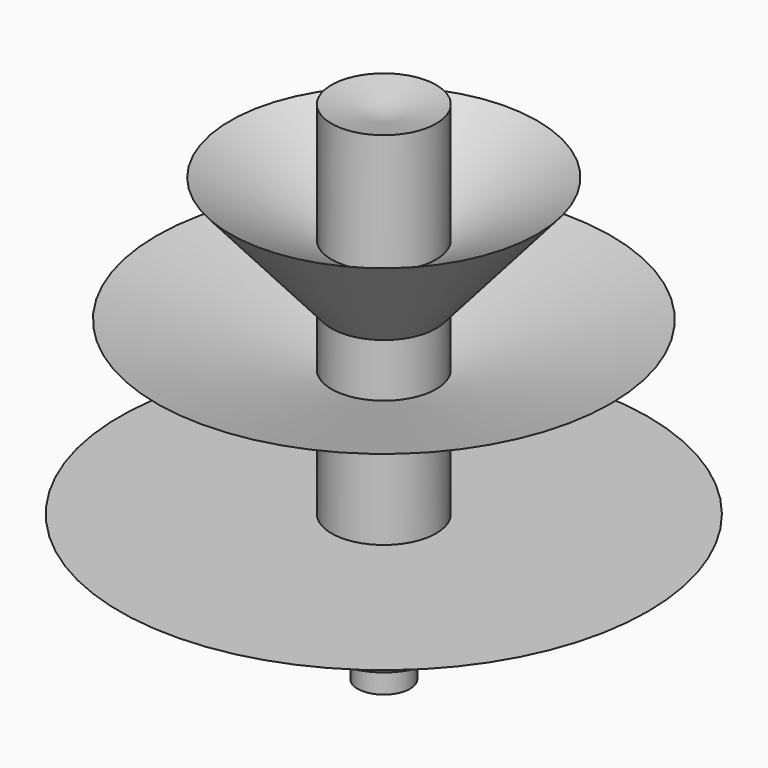
from build123d import *


with BuildPart() as f1:
    # F0 (on Front) → F1 (revolve)
    with BuildSketch(Plane.XZ):
        Polygon((11.832037, -1.892192), (11.832037, 3.574136), (8.841912, 1.892188), align=None)
        Polygon((26.385557, 48.566248), (14.822163, 42.258941), (14.822163, 35.320906), align=None)
        Polygon((34.795295, 34.269687), (14.822163, 29.223844), (14.822163, 24.59849), align=None)
        Polygon((11.832037, 3.574136), (8.841912, 5.256084), (8.841912, 1.892188), align=None)
        Polygon((14.822163, 42.258941), (14.822163, 55.924769), (8.841912, 54.663308), (8.841912, 5.256084), (11.832037, 3.574136), (14.822163, 1.892188), (16.714357, 5.256084), (39.000165, 14.717042), (14.822163, 14.717042), (14.822163, 24.59849), (14.822163, 29.223844), (14.822163, 35.320906), align=None)
    revolve(axis=Axis((8.841912, 0, 29.959696), (0, 0, 1)))


solid = f1.part
